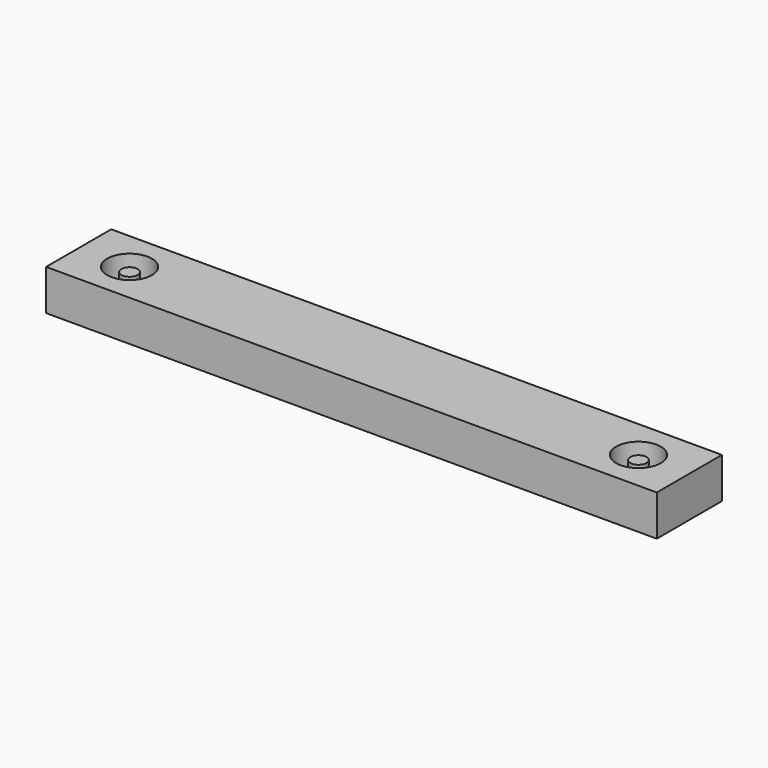
from build123d import *

# Parameters (mm, degrees)
F1_DEPTH = 20
F2_DEPTH = 17.78


with BuildPart() as f1:
    # F0 (on Top) → F1 (new body)
    with BuildSketch(Plane.XY):
        with BuildLine():
            Line((150, -20), (150, 0))
            Line((150, 0), (136, 0))
            ThreePointArc((136, 0), (125, -11), (114, 0))
            Line((114, 0), (-114, 0))
            ThreePointArc((-114, 0), (-125, -11), (-136, 0))
            Line((-136, 0), (-150, 0))
            Line((-150, 0), (-150, -20))
            Line((-150, -20), (150, -20))
        make_face()
        with BuildLine():
            Line((150, 0), (150, 20))
            Line((150, 20), (125, 20))
            Line((125, 20), (-125, 20))
            Line((-125, 20), (-150, 20))
            Line((-150, 20), (-150, 0))
            Line((-150, 0), (-136, 0))
            ThreePointArc((-136, 0), (-125, 11), (-114, 0))
            Line((-114, 0), (114, 0))
            ThreePointArc((114, 0), (125, 11), (136, 0))
            Line((136, 0), (150, 0))
        make_face()
    extrude(amount=F1_DEPTH)

    # F0 (on Top) → F2 (join)
    with BuildSketch(Plane.XY):
        with BuildLine():
            Line((150, 0), (150, 20))
            Line((150, 20), (125, 20))
            Line((125, 20), (-125, 20))
            Line((-125, 20), (-150, 20))
            Line((-150, 20), (-150, 0))
            Line((-150, 0), (-136, 0))
            ThreePointArc((-136, 0), (-125, 11), (-114, 0))
            Line((-114, 0), (114, 0))
            ThreePointArc((114, 0), (125, 11), (136, 0))
            Line((136, 0), (150, 0))
        make_face()
        with BuildLine():
            Line((150, -20), (150, 0))
            Line((150, 0), (136, 0))
            ThreePointArc((136, 0), (125, -11), (114, 0))
            Line((114, 0), (-114, 0))
            ThreePointArc((-114, 0), (-125, -11), (-136, 0))
            Line((-136, 0), (-150, 0))
            Line((-150, 0), (-150, -20))
            Line((-150, -20), (150, -20))
        make_face()
    extrude(amount=F2_DEPTH)


with BuildPart() as f2:
    # F0 (on Top) → F2, piece 2 (new body)
    with BuildSketch(Plane.XY):
        with BuildLine():
            ThreePointArc((-129, 0), (-125, -4), (-121, 0))
            Line((-121, 0), (-129, 0))
        make_face()
        with BuildLine():
            Line((-129, 0), (-121, 0))
            ThreePointArc((-121, 0), (-125, 4), (-129, 0))
        make_face()
    extrude(amount=F2_DEPTH)


with BuildPart() as f2b:
    # F0 (on Top) → F2, piece 3 (new body)
    with BuildSketch(Plane.XY):
        with BuildLine():
            Line((121, 0), (129, 0))
            ThreePointArc((129, 0), (125, 4), (121, 0))
        make_face()
        with BuildLine():
            ThreePointArc((121, 0), (125, -4), (129, 0))
            Line((129, 0), (121, 0))
        make_face()
    extrude(amount=F2_DEPTH)


solid = Compound([f1.part, f2.part, f2b.part])
